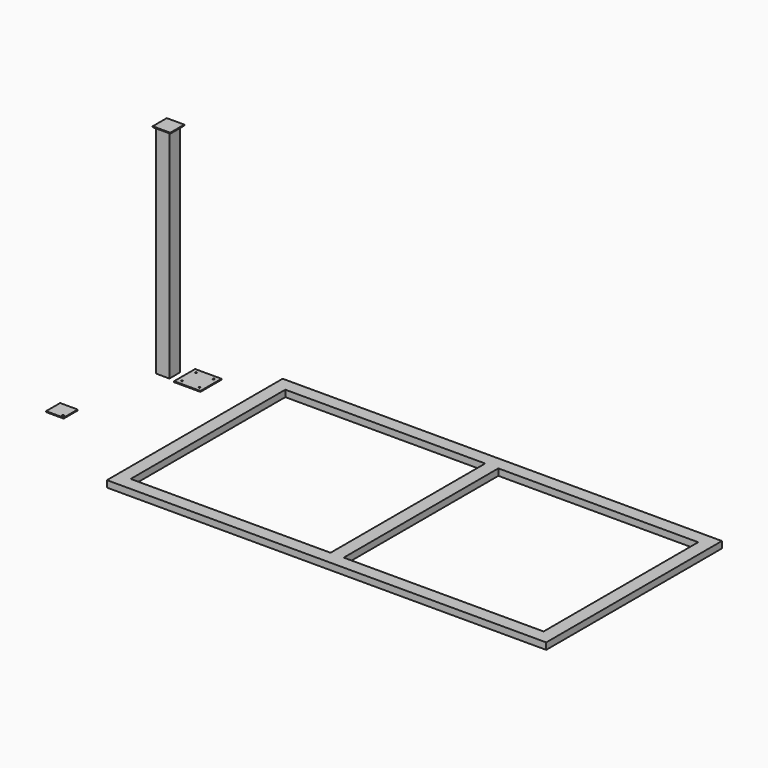
from build123d import *

# Parameters (mm, degrees)
F0_W     = 150
F0_H     = 150
F0_W_2   = 140
F0_H_2   = 140
F1_DEPTH = 2500
F0_W_3   = 300
F0_H_3   = 300
F0_R     = 10
F2_DEPTH = 10
F0_W_4   = 2275
F0_H_4   = 2200
F3_DEPTH = 75
F0_W_5   = 200
F0_H_5   = 200
F4_DEPTH = 10
F5_W     = 140
F5_H     = 140
F6_DEPTH = 10


with BuildPart() as f1:
    # F0 (on Top) → F1 (new body)
    with BuildSketch(Plane.XY):
        Rectangle(F0_W, F0_H)
        Rectangle(F0_W_2, F0_H_2, mode=Mode.SUBTRACT)
    extrude(amount=F1_DEPTH)

    # F5 (on face) → F6 (join)
    with BuildSketch(Plane.XY.offset(2500)):
        Polygon((75, -75), (-75, -75), (-75, -125), (125, -125), (125, 75), (75, 75), align=None)
        Rectangle(F5_W, F5_H)
    extrude(amount=-F6_DEPTH)


with BuildPart() as f2:
    # F0 (on Top) → F2 (new body)
    with BuildSketch(Plane.XY):
        with Locations((301.0120630264, 46.1757794023)):
            Rectangle(F0_W_3, F0_H_3)
        with Locations((201.0120630264, -53.8242205977)):
            Circle(F0_R, mode=Mode.SUBTRACT)
        with Locations((401.0120630264, -53.8242205977)):
            Circle(F0_R, mode=Mode.SUBTRACT)
        with Locations((201.0120630264, 146.1757794023)):
            Circle(F0_R, mode=Mode.SUBTRACT)
        with Locations((401.0120630264, 146.1757794023)):
            Circle(F0_R, mode=Mode.SUBTRACT)
    extrude(amount=F2_DEPTH)


with BuildPart() as f3:
    # F0 (on Top) → F3 (new body)
    with BuildSketch(Plane.XY):
        Polygon((1103.0536727687, 438.8376543754), (953.0536727687, 438.8376543754), (953.0536727687, -2061.1623456246), (5953.0536727687, -2061.1623456246), (5953.0536727687, 438.8376543754), (5803.0536727687, 438.8376543754), (3528.0536727687, 438.8376543754), (3378.0536727687, 438.8376543754), align=None)
        with Locations((2240.5536727687, -811.1623456246)):
            Rectangle(F0_W_4, F0_H_4, mode=Mode.SUBTRACT)
        with Locations((4665.5536727687, -811.1623456246)):
            Rectangle(F0_W_4, F0_H_4, mode=Mode.SUBTRACT)
    extrude(amount=F3_DEPTH)


with BuildPart() as f4:
    # F0 (on Top) → F4 (new body)
    with BuildSketch(Plane.XY):
        with Locations((-277.1453201771, -1164.4506692886)):
            Rectangle(F0_W_5, F0_H_5)
        with Locations((-207.1453201771, -1234.4506692886)):
            Circle(F0_R, mode=Mode.SUBTRACT)
    extrude(amount=F4_DEPTH)


solid = Compound([f1.part, f2.part, f3.part, f4.part])
